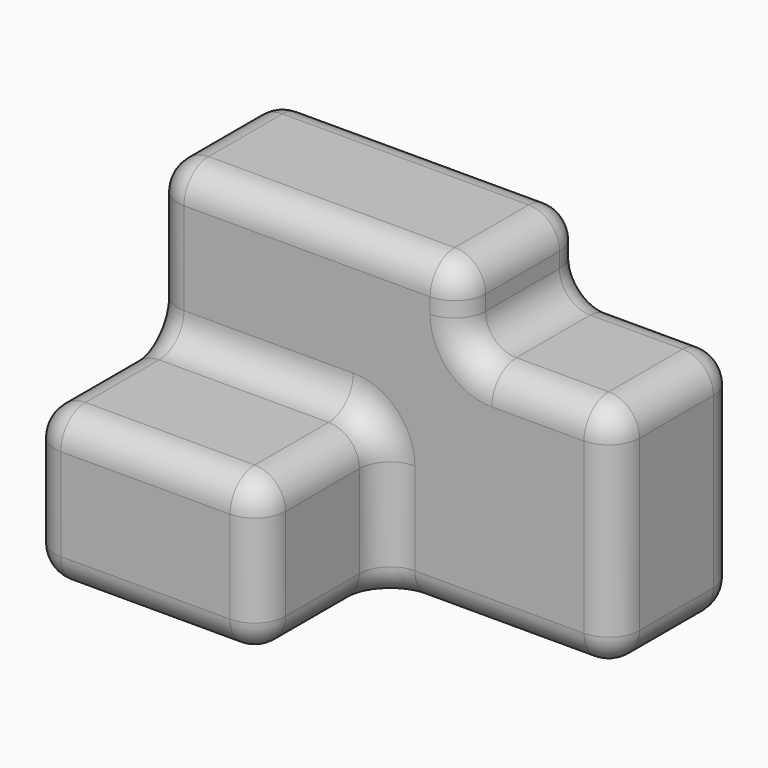
from build123d import *

# Parameters (mm, degrees)
F1_DEPTH = 25.4
F2_W     = 38.1
F2_H     = 25.4
F3_DEPTH = 25.4
F4_R     = 5.08


with BuildPart() as f1:
    # F0 (on Front) → F1 (new body)
    with BuildSketch(Plane.XZ):
        Polygon((6.5013106585, 19.9951574836), (-44.2986893415, 19.9951574836), (-44.2986893415, -30.8048425164), (31.9013106585, -30.8048425164), (31.9013106585, 7.2951574836), (6.5013106585, 7.2951574836), align=None)
    extrude(amount=F1_DEPTH)

    # F2 (on face) → F3 (join)
    with BuildSketch(Plane.XZ.offset(25.4)):
        with Locations((-25.2486893415, -18.1048425164)):
            Rectangle(F2_W, F2_H)
    extrude(amount=F3_DEPTH)

    # F4
    f4_edges = [f1.edges().sort_by_distance(p)[0] for p in [
        (6.501311, -12.7, 19.995157),
        (-44.298689, -12.7, 19.995157),
        (-18.898689, 0, 19.995157),
        (-18.898689, -25.4, 19.995157),
        (31.901311, -12.7, 7.295157),
        (6.501311, -12.7, 7.295157),
        (19.201311, 0, 7.295157),
        (19.201311, -25.4, 7.295157),
        (-6.198689, -50.8, -18.104843),
        (-25.248689, -50.8, -5.404843),
        (-44.298689, -50.8, -18.104843),
        (-25.248689, -50.8, -30.804843),
        (-6.198689, -38.1, -5.404843),
        (-44.298689, -38.1, -5.404843),
        (-25.248689, -25.4, -5.404843),
        (-6.198689, -38.1, -30.804843),
        (-6.198689, -25.4, -18.104843),
        (31.901311, -12.7, -30.804843),
        (31.901311, 0, -11.754843),
        (31.901311, -25.4, -11.754843),
        (12.851311, -25.4, -30.804843),
        (-44.298689, -25.4, 7.295157),
        (6.501311, -25.4, 13.645157),
        (6.501311, 0, 13.645157),
        (-44.298689, 0, -5.404843),
        (-6.198689, 0, -30.804843),
        (-44.298689, -25.4, -30.804843),
    ]]
    fillet(f4_edges, radius=F4_R)


solid = f1.part
